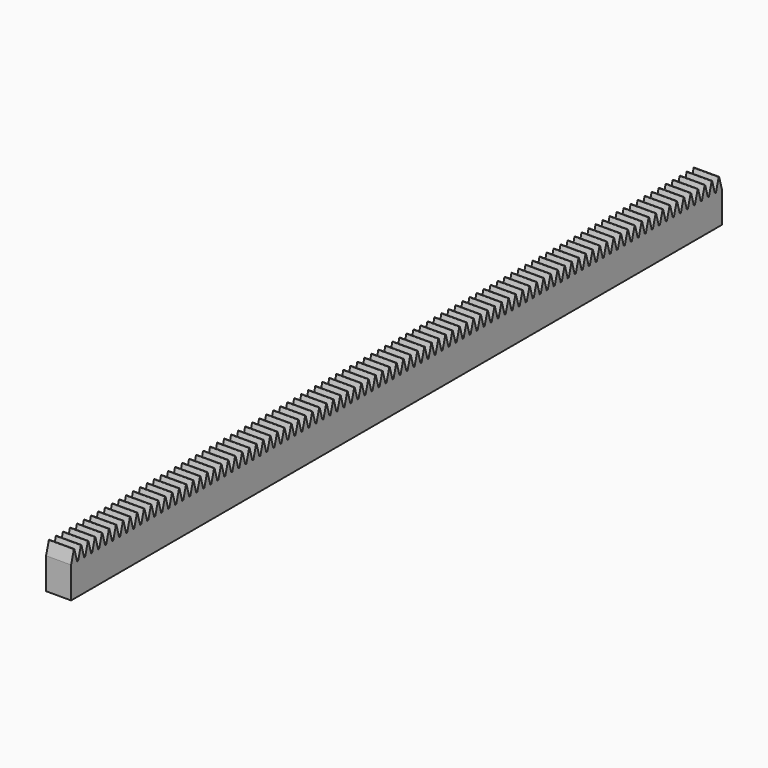
from build123d import *

# Parameters (mm, degrees)
F0_W     = 4
F0_H     = 130
F1_DEPTH = 5
F3_DEPTH = 4


with BuildPart() as f1:
    # F0 (on Top) → F1 (new body)
    with BuildSketch(Plane.XY):
        Rectangle(F0_W, F0_H)
    extrude(amount=F1_DEPTH)

    # F2 (on face) → F3 (join)
    with BuildSketch(Plane.YZ.offset(2)):
        with BuildLine():
            Line((-64.45, 6.962088), (-65, 5))
            Line((-65, 5), (-63.8, 5))
            Line((-63.8, 5), (-64.35, 6.962088))
            ThreePointArc((-64.35, 6.962088), (-64.4, 7), (-64.45, 6.962088))
        make_face()
        with BuildLine():
            Line((-63.05, 6.962088), (-63.6, 5))
            Line((-63.6, 5), (-62.4, 5))
            Line((-62.4, 5), (-62.95, 6.962088))
            ThreePointArc((-62.95, 6.962088), (-63, 7), (-63.05, 6.962088))
        make_face()
        with BuildLine():
            Line((-61.65, 6.962088), (-62.2, 5))
            Line((-62.2, 5), (-61, 5))
            Line((-61, 5), (-61.55, 6.962088))
            ThreePointArc((-61.55, 6.962088), (-61.6, 7), (-61.65, 6.962088))
        make_face()
        with BuildLine():
            Line((-60.25, 6.962088), (-60.8, 5))
            Line((-60.8, 5), (-59.6, 5))
            Line((-59.6, 5), (-60.15, 6.962088))
            ThreePointArc((-60.15, 6.962088), (-60.2, 7), (-60.25, 6.962088))
        make_face()
        with BuildLine():
            Line((-58.85, 6.962088), (-59.4, 5))
            Line((-59.4, 5), (-58.2, 5))
            Line((-58.2, 5), (-58.75, 6.962088))
            ThreePointArc((-58.75, 6.962088), (-58.8, 7), (-58.85, 6.962088))
        make_face()
        with BuildLine():
            Line((-57.45, 6.962088), (-58, 5))
            Line((-58, 5), (-56.8, 5))
            Line((-56.8, 5), (-57.35, 6.962088))
            ThreePointArc((-57.35, 6.962088), (-57.4, 7), (-57.45, 6.962088))
        make_face()
        with BuildLine():
            Line((-56.05, 6.962088), (-56.6, 5))
            Line((-56.6, 5), (-55.4, 5))
            Line((-55.4, 5), (-55.95, 6.962088))
            ThreePointArc((-55.95, 6.962088), (-56, 7), (-56.05, 6.962088))
        make_face()
        with BuildLine():
            Line((-54.65, 6.962088), (-55.2, 5))
            Line((-55.2, 5), (-54, 5))
            Line((-54, 5), (-54.55, 6.962088))
            ThreePointArc((-54.55, 6.962088), (-54.6, 7), (-54.65, 6.962088))
        make_face()
        with BuildLine():
            Line((-53.25, 6.962088), (-53.8, 5))
            Line((-53.8, 5), (-52.6, 5))
            Line((-52.6, 5), (-53.15, 6.962088))
            ThreePointArc((-53.15, 6.962088), (-53.2, 7), (-53.25, 6.962088))
        make_face()
        with BuildLine():
            Line((-51.85, 6.962088), (-52.4, 5))
            Line((-52.4, 5), (-51.2, 5))
            Line((-51.2, 5), (-51.75, 6.962088))
            ThreePointArc((-51.75, 6.962088), (-51.8, 7), (-51.85, 6.962088))
        make_face()
        with BuildLine():
            Line((-50.45, 6.962088), (-51, 5))
            Line((-51, 5), (-49.8, 5))
            Line((-49.8, 5), (-50.35, 6.962088))
            ThreePointArc((-50.35, 6.962088), (-50.4, 7), (-50.45, 6.962088))
        make_face()
        with BuildLine():
            Line((-49.05, 6.962088), (-49.6, 5))
            Line((-49.6, 5), (-48.4, 5))
            Line((-48.4, 5), (-48.95, 6.962088))
            ThreePointArc((-48.95, 6.962088), (-49, 7), (-49.05, 6.962088))
        make_face()
        with BuildLine():
            Line((-47.65, 6.962088), (-48.2, 5))
            Line((-48.2, 5), (-47, 5))
            Line((-47, 5), (-47.55, 6.962088))
            ThreePointArc((-47.55, 6.962088), (-47.6, 7), (-47.65, 6.962088))
        make_face()
        with BuildLine():
            Line((-46.25, 6.962088), (-46.8, 5))
            Line((-46.8, 5), (-45.6, 5))
            Line((-45.6, 5), (-46.15, 6.962088))
            ThreePointArc((-46.15, 6.962088), (-46.2, 7), (-46.25, 6.962088))
        make_face()
        with BuildLine():
            Line((-44.85, 6.962088), (-45.4, 5))
            Line((-45.4, 5), (-44.2, 5))
            Line((-44.2, 5), (-44.75, 6.962088))
            ThreePointArc((-44.75, 6.962088), (-44.8, 7), (-44.85, 6.962088))
        make_face()
        with BuildLine():
            Line((-43.45, 6.962088), (-44, 5))
            Line((-44, 5), (-42.8, 5))
            Line((-42.8, 5), (-43.35, 6.962088))
            ThreePointArc((-43.35, 6.962088), (-43.4, 7), (-43.45, 6.962088))
        make_face()
        with BuildLine():
            Line((-42.05, 6.962088), (-42.6, 5))
            Line((-42.6, 5), (-41.4, 5))
            Line((-41.4, 5), (-41.95, 6.962088))
            ThreePointArc((-41.95, 6.962088), (-42, 7), (-42.05, 6.962088))
        make_face()
        with BuildLine():
            Line((-40.65, 6.962088), (-41.2, 5))
            Line((-41.2, 5), (-40, 5))
            Line((-40, 5), (-40.55, 6.962088))
            ThreePointArc((-40.55, 6.962088), (-40.6, 7), (-40.65, 6.962088))
        make_face()
        with BuildLine():
            Line((-39.25, 6.962088), (-39.8, 5))
            Line((-39.8, 5), (-38.6, 5))
            Line((-38.6, 5), (-39.15, 6.962088))
            ThreePointArc((-39.15, 6.962088), (-39.2, 7), (-39.25, 6.962088))
        make_face()
        with BuildLine():
            Line((-37.85, 6.962088), (-38.4, 5))
            Line((-38.4, 5), (-37.2, 5))
            Line((-37.2, 5), (-37.75, 6.962088))
            ThreePointArc((-37.75, 6.962088), (-37.8, 7), (-37.85, 6.962088))
        make_face()
        with BuildLine():
            Line((-36.45, 6.962088), (-37, 5))
            Line((-37, 5), (-35.8, 5))
            Line((-35.8, 5), (-36.35, 6.962088))
            ThreePointArc((-36.35, 6.962088), (-36.4, 7), (-36.45, 6.962088))
        make_face()
        with BuildLine():
            Line((-35.05, 6.962088), (-35.6, 5))
            Line((-35.6, 5), (-34.4, 5))
            Line((-34.4, 5), (-34.95, 6.962088))
            ThreePointArc((-34.95, 6.962088), (-35, 7), (-35.05, 6.962088))
        make_face()
        with BuildLine():
            Line((-33.65, 6.962088), (-34.2, 5))
            Line((-34.2, 5), (-33, 5))
            Line((-33, 5), (-33.55, 6.962088))
            ThreePointArc((-33.55, 6.962088), (-33.6, 7), (-33.65, 6.962088))
        make_face()
        with BuildLine():
            Line((-32.25, 6.962088), (-32.8, 5))
            Line((-32.8, 5), (-31.6, 5))
            Line((-31.6, 5), (-32.15, 6.962088))
            ThreePointArc((-32.15, 6.962088), (-32.2, 7), (-32.25, 6.962088))
        make_face()
        with BuildLine():
            Line((-30.85, 6.962088), (-31.4, 5))
            Line((-31.4, 5), (-30.2, 5))
            Line((-30.2, 5), (-30.75, 6.962088))
            ThreePointArc((-30.75, 6.962088), (-30.8, 7), (-30.85, 6.962088))
        make_face()
        with BuildLine():
            Line((-29.45, 6.962088), (-30, 5))
            Line((-30, 5), (-28.8, 5))
            Line((-28.8, 5), (-29.35, 6.962088))
            ThreePointArc((-29.35, 6.962088), (-29.4, 7), (-29.45, 6.962088))
        make_face()
        with BuildLine():
            Line((-28.05, 6.962088), (-28.6, 5))
            Line((-28.6, 5), (-27.4, 5))
            Line((-27.4, 5), (-27.95, 6.962088))
            ThreePointArc((-27.95, 6.962088), (-28, 7), (-28.05, 6.962088))
        make_face()
        with BuildLine():
            Line((-26.65, 6.962088), (-27.2, 5))
            Line((-27.2, 5), (-26, 5))
            Line((-26, 5), (-26.55, 6.962088))
            ThreePointArc((-26.55, 6.962088), (-26.6, 7), (-26.65, 6.962088))
        make_face()
        with BuildLine():
            Line((-25.25, 6.962088), (-25.8, 5))
            Line((-25.8, 5), (-24.6, 5))
            Line((-24.6, 5), (-25.15, 6.962088))
            ThreePointArc((-25.15, 6.962088), (-25.2, 7), (-25.25, 6.962088))
        make_face()
        with BuildLine():
            Line((-23.85, 6.962088), (-24.4, 5))
            Line((-24.4, 5), (-23.2, 5))
            Line((-23.2, 5), (-23.75, 6.962088))
            ThreePointArc((-23.75, 6.962088), (-23.8, 7), (-23.85, 6.962088))
        make_face()
        with BuildLine():
            Line((-22.45, 6.962088), (-23, 5))
            Line((-23, 5), (-21.8, 5))
            Line((-21.8, 5), (-22.35, 6.962088))
            ThreePointArc((-22.35, 6.962088), (-22.4, 7), (-22.45, 6.962088))
        make_face()
        with BuildLine():
            Line((-21.05, 6.962088), (-21.6, 5))
            Line((-21.6, 5), (-20.4, 5))
            Line((-20.4, 5), (-20.95, 6.962088))
            ThreePointArc((-20.95, 6.962088), (-21, 7), (-21.05, 6.962088))
        make_face()
        with BuildLine():
            Line((-19.65, 6.962088), (-20.2, 5))
            Line((-20.2, 5), (-19, 5))
            Line((-19, 5), (-19.55, 6.962088))
            ThreePointArc((-19.55, 6.962088), (-19.6, 7), (-19.65, 6.962088))
        make_face()
        with BuildLine():
            Line((-18.25, 6.962088), (-18.8, 5))
            Line((-18.8, 5), (-17.6, 5))
            Line((-17.6, 5), (-18.15, 6.962088))
            ThreePointArc((-18.15, 6.962088), (-18.2, 7), (-18.25, 6.962088))
        make_face()
        with BuildLine():
            Line((-16.85, 6.962088), (-17.4, 5))
            Line((-17.4, 5), (-16.2, 5))
            Line((-16.2, 5), (-16.75, 6.962088))
            ThreePointArc((-16.75, 6.962088), (-16.8, 7), (-16.85, 6.962088))
        make_face()
        with BuildLine():
            Line((-15.45, 6.962088), (-16, 5))
            Line((-16, 5), (-14.8, 5))
            Line((-14.8, 5), (-15.35, 6.962088))
            ThreePointArc((-15.35, 6.962088), (-15.4, 7), (-15.45, 6.962088))
        make_face()
        with BuildLine():
            Line((-14.05, 6.962088), (-14.6, 5))
            Line((-14.6, 5), (-13.4, 5))
            Line((-13.4, 5), (-13.95, 6.962088))
            ThreePointArc((-13.95, 6.962088), (-14, 7), (-14.05, 6.962088))
        make_face()
        with BuildLine():
            Line((-12.65, 6.962088), (-13.2, 5))
            Line((-13.2, 5), (-12, 5))
            Line((-12, 5), (-12.55, 6.962088))
            ThreePointArc((-12.55, 6.962088), (-12.6, 7), (-12.65, 6.962088))
        make_face()
        with BuildLine():
            Line((-11.25, 6.962088), (-11.8, 5))
            Line((-11.8, 5), (-10.6, 5))
            Line((-10.6, 5), (-11.15, 6.962088))
            ThreePointArc((-11.15, 6.962088), (-11.2, 7), (-11.25, 6.962088))
        make_face()
        with BuildLine():
            Line((-9.85, 6.962088), (-10.4, 5))
            Line((-10.4, 5), (-9.2, 5))
            Line((-9.2, 5), (-9.75, 6.962088))
            ThreePointArc((-9.75, 6.962088), (-9.8, 7), (-9.85, 6.962088))
        make_face()
        with BuildLine():
            Line((-8.45, 6.962088), (-9, 5))
            Line((-9, 5), (-7.8, 5))
            Line((-7.8, 5), (-8.35, 6.962088))
            ThreePointArc((-8.35, 6.962088), (-8.4, 7), (-8.45, 6.962088))
        make_face()
        with BuildLine():
            Line((-7.05, 6.962088), (-7.6, 5))
            Line((-7.6, 5), (-6.4, 5))
            Line((-6.4, 5), (-6.95, 6.962088))
            ThreePointArc((-6.95, 6.962088), (-7, 7), (-7.05, 6.962088))
        make_face()
        with BuildLine():
            Line((-5.65, 6.962088), (-6.2, 5))
            Line((-6.2, 5), (-5, 5))
            Line((-5, 5), (-5.55, 6.962088))
            ThreePointArc((-5.55, 6.962088), (-5.6, 7), (-5.65, 6.962088))
        make_face()
        with BuildLine():
            Line((-4.25, 6.962088), (-4.8, 5))
            Line((-4.8, 5), (-3.6, 5))
            Line((-3.6, 5), (-4.15, 6.962088))
            ThreePointArc((-4.15, 6.962088), (-4.2, 7), (-4.25, 6.962088))
        make_face()
        with BuildLine():
            Line((-2.85, 6.962088), (-3.4, 5))
            Line((-3.4, 5), (-2.2, 5))
            Line((-2.2, 5), (-2.75, 6.962088))
            ThreePointArc((-2.75, 6.962088), (-2.8, 7), (-2.85, 6.962088))
        make_face()
        with BuildLine():
            Line((-1.45, 6.962088), (-2, 5))
            Line((-2, 5), (-0.8, 5))
            Line((-0.8, 5), (-1.35, 6.962088))
            ThreePointArc((-1.35, 6.962088), (-1.4, 7), (-1.45, 6.962088))
        make_face()
        with BuildLine():
            Line((-0.05, 6.962088), (-0.6, 5))
            Line((-0.6, 5), (0.6, 5))
            Line((0.6, 5), (0.05, 6.962088))
            ThreePointArc((0.05, 6.962088), (0, 7), (-0.05, 6.962088))
        make_face()
        with BuildLine():
            Line((1.35, 6.962088), (0.8, 5))
            Line((0.8, 5), (2, 5))
            Line((2, 5), (1.45, 6.962088))
            ThreePointArc((1.45, 6.962088), (1.4, 7), (1.35, 6.962088))
        make_face()
        with BuildLine():
            Line((2.75, 6.962088), (2.2, 5))
            Line((2.2, 5), (3.4, 5))
            Line((3.4, 5), (2.85, 6.962088))
            ThreePointArc((2.85, 6.962088), (2.8, 7), (2.75, 6.962088))
        make_face()
        with BuildLine():
            Line((4.15, 6.962088), (3.6, 5))
            Line((3.6, 5), (4.8, 5))
            Line((4.8, 5), (4.25, 6.962088))
            ThreePointArc((4.25, 6.962088), (4.2, 7), (4.15, 6.962088))
        make_face()
        with BuildLine():
            Line((5.55, 6.962088), (5, 5))
            Line((5, 5), (6.2, 5))
            Line((6.2, 5), (5.65, 6.962088))
            ThreePointArc((5.65, 6.962088), (5.6, 7), (5.55, 6.962088))
        make_face()
        with BuildLine():
            Line((6.95, 6.962088), (6.4, 5))
            Line((6.4, 5), (7.6, 5))
            Line((7.6, 5), (7.05, 6.962088))
            ThreePointArc((7.05, 6.962088), (7, 7), (6.95, 6.962088))
        make_face()
        with BuildLine():
            Line((8.35, 6.962088), (7.8, 5))
            Line((7.8, 5), (9, 5))
            Line((9, 5), (8.45, 6.962088))
            ThreePointArc((8.45, 6.962088), (8.4, 7), (8.35, 6.962088))
        make_face()
        with BuildLine():
            Line((9.75, 6.962088), (9.2, 5))
            Line((9.2, 5), (10.4, 5))
            Line((10.4, 5), (9.85, 6.962088))
            ThreePointArc((9.85, 6.962088), (9.8, 7), (9.75, 6.962088))
        make_face()
        with BuildLine():
            Line((11.15, 6.962088), (10.6, 5))
            Line((10.6, 5), (11.8, 5))
            Line((11.8, 5), (11.25, 6.962088))
            ThreePointArc((11.25, 6.962088), (11.2, 7), (11.15, 6.962088))
        make_face()
        with BuildLine():
            Line((12.55, 6.962088), (12, 5))
            Line((12, 5), (13.2, 5))
            Line((13.2, 5), (12.65, 6.962088))
            ThreePointArc((12.65, 6.962088), (12.6, 7), (12.55, 6.962088))
        make_face()
        with BuildLine():
            Line((13.95, 6.962088), (13.4, 5))
            Line((13.4, 5), (14.6, 5))
            Line((14.6, 5), (14.05, 6.962088))
            ThreePointArc((14.05, 6.962088), (14, 7), (13.95, 6.962088))
        make_face()
        with BuildLine():
            Line((15.35, 6.962088), (14.8, 5))
            Line((14.8, 5), (16, 5))
            Line((16, 5), (15.45, 6.962088))
            ThreePointArc((15.45, 6.962088), (15.4, 7), (15.35, 6.962088))
        make_face()
        with BuildLine():
            Line((16.75, 6.962088), (16.2, 5))
            Line((16.2, 5), (17.4, 5))
            Line((17.4, 5), (16.85, 6.962088))
            ThreePointArc((16.85, 6.962088), (16.8, 7), (16.75, 6.962088))
        make_face()
        with BuildLine():
            Line((18.15, 6.962088), (17.6, 5))
            Line((17.6, 5), (18.8, 5))
            Line((18.8, 5), (18.25, 6.962088))
            ThreePointArc((18.25, 6.962088), (18.2, 7), (18.15, 6.962088))
        make_face()
        with BuildLine():
            Line((19.55, 6.962088), (19, 5))
            Line((19, 5), (20.2, 5))
            Line((20.2, 5), (19.65, 6.962088))
            ThreePointArc((19.65, 6.962088), (19.6, 7), (19.55, 6.962088))
        make_face()
        with BuildLine():
            Line((20.95, 6.962088), (20.4, 5))
            Line((20.4, 5), (21.6, 5))
            Line((21.6, 5), (21.05, 6.962088))
            ThreePointArc((21.05, 6.962088), (21, 7), (20.95, 6.962088))
        make_face()
        with BuildLine():
            Line((22.35, 6.962088), (21.8, 5))
            Line((21.8, 5), (23, 5))
            Line((23, 5), (22.45, 6.962088))
            ThreePointArc((22.45, 6.962088), (22.4, 7), (22.35, 6.962088))
        make_face()
        with BuildLine():
            Line((23.75, 6.962088), (23.2, 5))
            Line((23.2, 5), (24.4, 5))
            Line((24.4, 5), (23.85, 6.962088))
            ThreePointArc((23.85, 6.962088), (23.8, 7), (23.75, 6.962088))
        make_face()
        with BuildLine():
            Line((25.15, 6.962088), (24.6, 5))
            Line((24.6, 5), (25.8, 5))
            Line((25.8, 5), (25.25, 6.962088))
            ThreePointArc((25.25, 6.962088), (25.2, 7), (25.15, 6.962088))
        make_face()
        with BuildLine():
            Line((26.55, 6.962088), (26, 5))
            Line((26, 5), (27.2, 5))
            Line((27.2, 5), (26.65, 6.962088))
            ThreePointArc((26.65, 6.962088), (26.6, 7), (26.55, 6.962088))
        make_face()
        with BuildLine():
            Line((27.95, 6.962088), (27.4, 5))
            Line((27.4, 5), (28.6, 5))
            Line((28.6, 5), (28.05, 6.962088))
            ThreePointArc((28.05, 6.962088), (28, 7), (27.95, 6.962088))
        make_face()
        with BuildLine():
            Line((29.35, 6.962088), (28.8, 5))
            Line((28.8, 5), (30, 5))
            Line((30, 5), (29.45, 6.962088))
            ThreePointArc((29.45, 6.962088), (29.4, 7), (29.35, 6.962088))
        make_face()
        with BuildLine():
            Line((30.75, 6.962088), (30.2, 5))
            Line((30.2, 5), (31.4, 5))
            Line((31.4, 5), (30.85, 6.962088))
            ThreePointArc((30.85, 6.962088), (30.8, 7), (30.75, 6.962088))
        make_face()
        with BuildLine():
            Line((32.15, 6.962088), (31.6, 5))
            Line((31.6, 5), (32.8, 5))
            Line((32.8, 5), (32.25, 6.962088))
            ThreePointArc((32.25, 6.962088), (32.2, 7), (32.15, 6.962088))
        make_face()
        with BuildLine():
            Line((33.55, 6.962088), (33, 5))
            Line((33, 5), (34.2, 5))
            Line((34.2, 5), (33.65, 6.962088))
            ThreePointArc((33.65, 6.962088), (33.6, 7), (33.55, 6.962088))
        make_face()
        with BuildLine():
            Line((34.95, 6.962088), (34.4, 5))
            Line((34.4, 5), (35.6, 5))
            Line((35.6, 5), (35.05, 6.962088))
            ThreePointArc((35.05, 6.962088), (35, 7), (34.95, 6.962088))
        make_face()
        with BuildLine():
            Line((36.35, 6.962088), (35.8, 5))
            Line((35.8, 5), (37, 5))
            Line((37, 5), (36.45, 6.962088))
            ThreePointArc((36.45, 6.962088), (36.4, 7), (36.35, 6.962088))
        make_face()
        with BuildLine():
            Line((37.75, 6.962088), (37.2, 5))
            Line((37.2, 5), (38.4, 5))
            Line((38.4, 5), (37.85, 6.962088))
            ThreePointArc((37.85, 6.962088), (37.8, 7), (37.75, 6.962088))
        make_face()
        with BuildLine():
            Line((39.15, 6.962088), (38.6, 5))
            Line((38.6, 5), (39.8, 5))
            Line((39.8, 5), (39.25, 6.962088))
            ThreePointArc((39.25, 6.962088), (39.2, 7), (39.15, 6.962088))
        make_face()
        with BuildLine():
            Line((40.55, 6.962088), (40, 5))
            Line((40, 5), (41.2, 5))
            Line((41.2, 5), (40.65, 6.962088))
            ThreePointArc((40.65, 6.962088), (40.6, 7), (40.55, 6.962088))
        make_face()
        with BuildLine():
            Line((41.95, 6.962088), (41.4, 5))
            Line((41.4, 5), (42.6, 5))
            Line((42.6, 5), (42.05, 6.962088))
            ThreePointArc((42.05, 6.962088), (42, 7), (41.95, 6.962088))
        make_face()
        with BuildLine():
            Line((43.35, 6.962088), (42.8, 5))
            Line((42.8, 5), (44, 5))
            Line((44, 5), (43.45, 6.962088))
            ThreePointArc((43.45, 6.962088), (43.4, 7), (43.35, 6.962088))
        make_face()
        with BuildLine():
            Line((44.75, 6.962088), (44.2, 5))
            Line((44.2, 5), (45.4, 5))
            Line((45.4, 5), (44.85, 6.962088))
            ThreePointArc((44.85, 6.962088), (44.8, 7), (44.75, 6.962088))
        make_face()
        with BuildLine():
            Line((46.15, 6.962088), (45.6, 5))
            Line((45.6, 5), (46.8, 5))
            Line((46.8, 5), (46.25, 6.962088))
            ThreePointArc((46.25, 6.962088), (46.2, 7), (46.15, 6.962088))
        make_face()
        with BuildLine():
            Line((47.55, 6.962088), (47, 5))
            Line((47, 5), (48.2, 5))
            Line((48.2, 5), (47.65, 6.962088))
            ThreePointArc((47.65, 6.962088), (47.6, 7), (47.55, 6.962088))
        make_face()
        with BuildLine():
            Line((48.95, 6.962088), (48.4, 5))
            Line((48.4, 5), (49.6, 5))
            Line((49.6, 5), (49.05, 6.962088))
            ThreePointArc((49.05, 6.962088), (49, 7), (48.95, 6.962088))
        make_face()
        with BuildLine():
            Line((50.35, 6.962088), (49.8, 5))
            Line((49.8, 5), (51, 5))
            Line((51, 5), (50.45, 6.962088))
            ThreePointArc((50.45, 6.962088), (50.4, 7), (50.35, 6.962088))
        make_face()
        with BuildLine():
            Line((51.75, 6.962088), (51.2, 5))
            Line((51.2, 5), (52.4, 5))
            Line((52.4, 5), (51.85, 6.962088))
            ThreePointArc((51.85, 6.962088), (51.8, 7), (51.75, 6.962088))
        make_face()
        with BuildLine():
            Line((53.15, 6.962088), (52.6, 5))
            Line((52.6, 5), (53.8, 5))
            Line((53.8, 5), (53.25, 6.962088))
            ThreePointArc((53.25, 6.962088), (53.2, 7), (53.15, 6.962088))
        make_face()
        with BuildLine():
            Line((54.55, 6.962088), (54, 5))
            Line((54, 5), (55.2, 5))
            Line((55.2, 5), (54.65, 6.962088))
            ThreePointArc((54.65, 6.962088), (54.6, 7), (54.55, 6.962088))
        make_face()
        with BuildLine():
            Line((55.95, 6.962088), (55.4, 5))
            Line((55.4, 5), (56.6, 5))
            Line((56.6, 5), (56.05, 6.962088))
            ThreePointArc((56.05, 6.962088), (56, 7), (55.95, 6.962088))
        make_face()
        with BuildLine():
            Line((57.35, 6.962088), (56.8, 5))
            Line((56.8, 5), (58, 5))
            Line((58, 5), (57.45, 6.962088))
            ThreePointArc((57.45, 6.962088), (57.4, 7), (57.35, 6.962088))
        make_face()
        with BuildLine():
            Line((58.75, 6.962088), (58.2, 5))
            Line((58.2, 5), (59.4, 5))
            Line((59.4, 5), (58.85, 6.962088))
            ThreePointArc((58.85, 6.962088), (58.8, 7), (58.75, 6.962088))
        make_face()
        with BuildLine():
            Line((60.15, 6.962088), (59.6, 5))
            Line((59.6, 5), (60.8, 5))
            Line((60.8, 5), (60.25, 6.962088))
            ThreePointArc((60.25, 6.962088), (60.2, 7), (60.15, 6.962088))
        make_face()
        with BuildLine():
            Line((61.55, 6.962088), (61, 5))
            Line((61, 5), (62.2, 5))
            Line((62.2, 5), (61.65, 6.962088))
            ThreePointArc((61.65, 6.962088), (61.6, 7), (61.55, 6.962088))
        make_face()
        with BuildLine():
            Line((62.95, 6.962088), (62.4, 5))
            Line((62.4, 5), (63.6, 5))
            Line((63.6, 5), (63.05, 6.962088))
            ThreePointArc((63.05, 6.962088), (63, 7), (62.95, 6.962088))
        make_face()
        with BuildLine():
            Line((64.35, 6.962088), (63.8, 5))
            Line((63.8, 5), (65, 5))
            Line((65, 5), (64.45, 6.962088))
            ThreePointArc((64.45, 6.962088), (64.4, 7), (64.35, 6.962088))
        make_face()
    extrude(amount=-F3_DEPTH)


solid = f1.part
